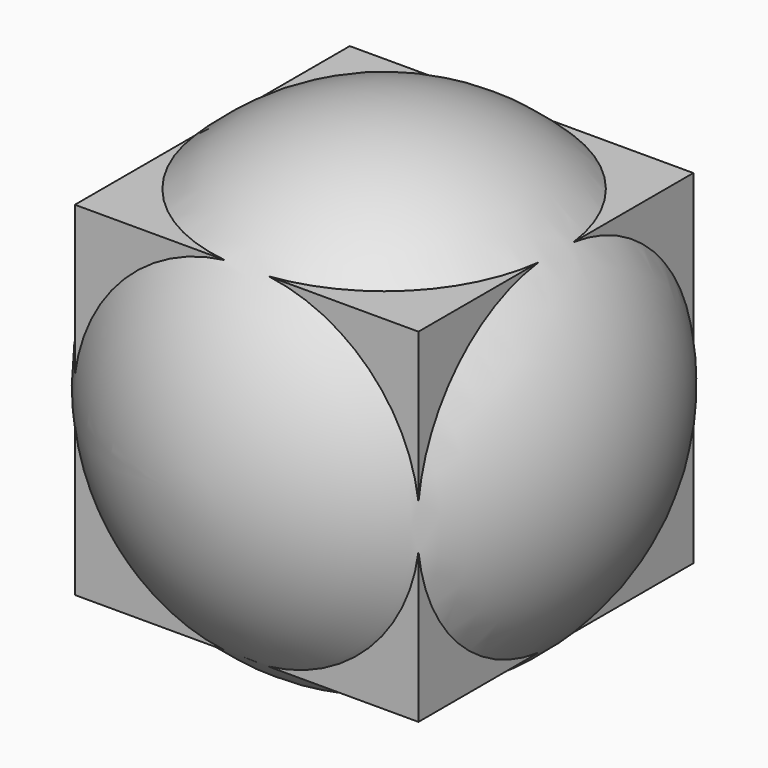
from build123d import *

# Parameters (mm, degrees)
F1_W     = 2540
F1_H     = 2540
F3_DEPTH = 2540


with BuildPart() as f3:
    # F1 (on Top) → F3 (new body)
    with BuildSketch(Plane.XY):
        Rectangle(F1_W, F1_H)
    extrude(amount=F3_DEPTH)

    # F2 (on offset) → F4 (revolve)
    with BuildSketch(Plane.XY.offset(1270)):
        with BuildLine():
            Line((0, -1803.4), (0, 1803.4))
            ThreePointArc((0, 1803.4), (-1803.4, 0), (0, -1803.4))
        make_face()
    revolve(axis=Axis((0, 0, 1270), (0, -1, 0)))


solid = f3.part
